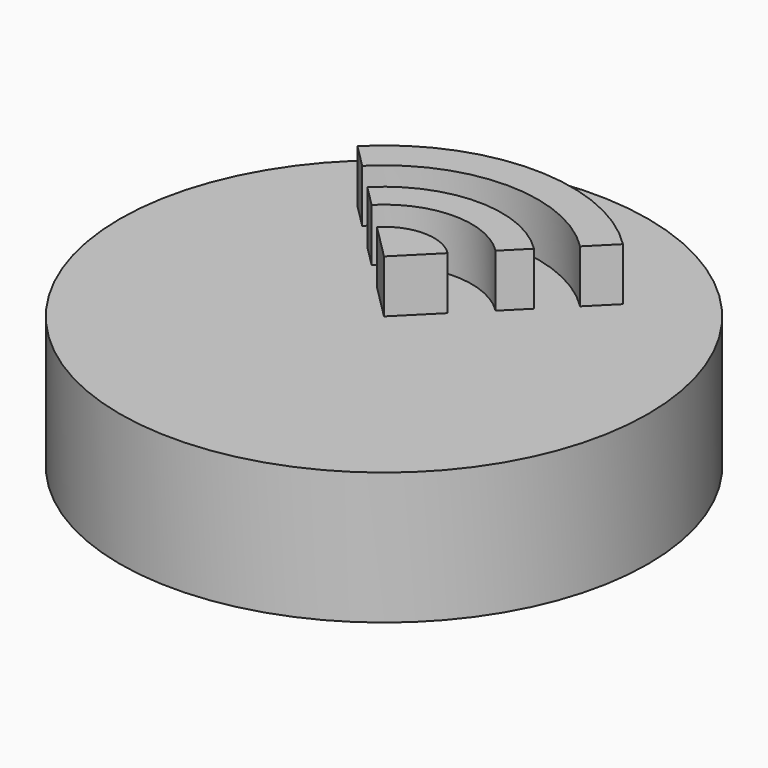
from build123d import *

# Parameters (mm, degrees)
F0_R     = 5
F1_DEPTH = 2.5
F3_DEPTH = 1


with BuildPart() as f1:
    # F0 (on Top) → F1 (new body)
    with BuildSketch(Plane.XY):
        Circle(F0_R)
    extrude(amount=F1_DEPTH)

    # F2 (on face) → F3 (join)
    with BuildSketch(Plane.XY.offset(2.5)):
        with BuildLine():
            Line((2.062848, 2.062848), (2.513184, 2.513184))
            ThreePointArc((2.513184, 2.513184), (0, 3.55418), (-2.513184, 2.513184))
            Line((-2.513184, 2.513184), (-2.062848, 2.062848))
            ThreePointArc((-2.062848, 2.062848), (0, 2.917307), (2.062848, 2.062848))
        make_face()
        with BuildLine():
            Line((1.173422, 1.173422), (1.577984, 1.577984))
            ThreePointArc((1.577984, 1.577984), (0, 2.231606), (-1.577984, 1.577984))
            Line((-1.577984, 1.577984), (-1.173422, 1.173422))
            ThreePointArc((-1.173422, 1.173422), (0, 1.659469), (1.173422, 1.173422))
        make_face()
        with BuildLine():
            Line((0, 0), (0.670121, 0.670121))
            ThreePointArc((0.670121, 0.670121), (0, 0.947694), (-0.670121, 0.670121))
            Line((-0.670121, 0.670121), (0, 0))
        make_face()
    extrude(amount=F3_DEPTH)


solid = f1.part
